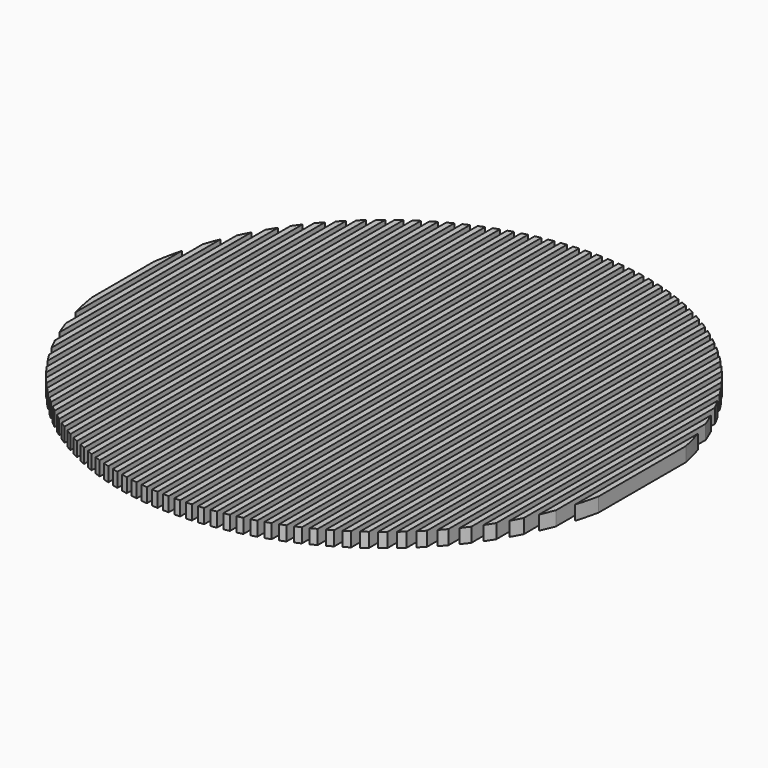
from build123d import *

# Parameters (mm, degrees)
F1_DEPTH = 2


with BuildPart() as f1:
    # F0 (on Top) → F1 (new body)
    with BuildSketch(Plane.XY):
        with BuildLine():
            Line((6.4, 48.4258639865), (6.4, 37.5741360135))
            ThreePointArc((6.4, 37.5741360135), (6.7469566137, 35.6029164376), (7.2, 33.6533428436))
            Line((7.2, 33.6533428436), (7.2, 52.3466571564))
            ThreePointArc((7.2, 52.3466571564), (6.7469566137, 50.3970835624), (6.4, 48.4258639865))
        make_face()
    extrude(amount=F1_DEPTH)


with BuildPart() as f1b:
    # F0 (on Top) → F1, piece 2 (new body)
    with BuildSketch(Plane.XY):
        with BuildLine():
            Line((8, 55), (8, 31))
            ThreePointArc((8, 31), (8.3837746202, 29.9341307042), (8.8, 28.8805099242))
            Line((8.8, 28.8805099242), (8.8, 57.1194900758))
            ThreePointArc((8.8, 57.1194900758), (8.3837746202, 56.0658692958), (8, 55))
        make_face()
    extrude(amount=F1_DEPTH)


with BuildPart() as f1c:
    # F0 (on Top) → F1, piece 3 (new body)
    with BuildSketch(Plane.XY):
        with BuildLine():
            Line((9.6, 58.9197989937), (9.6, 27.0802010063))
            ThreePointArc((9.6, 27.0802010063), (9.9905463074, 26.285456425), (10.4, 25.5002857166))
            Line((10.4, 25.5002857166), (10.4, 60.4997142834))
            ThreePointArc((10.4, 60.4997142834), (9.9905463074, 59.714543575), (9.6, 58.9197989937))
        make_face()
    extrude(amount=F1_DEPTH)


with BuildPart() as f1d:
    # F0 (on Top) → F1, piece 4 (new body)
    with BuildSketch(Plane.XY):
        with BuildLine():
            Line((11.2, 61.9145446681), (11.2, 24.0854553319))
            ThreePointArc((11.2, 24.0854553319), (11.5934328091, 23.4391325018), (12, 22.8009901233))
            Line((12, 22.8009901233), (12, 63.1990098767))
            ThreePointArc((12, 63.1990098767), (11.5934328091, 62.5608674982), (11.2, 61.9145446681))
        make_face()
    extrude(amount=F1_DEPTH)


with BuildPart() as f1e:
    # F0 (on Top) → F1, piece 5 (new body)
    with BuildSketch(Plane.XY):
        with BuildLine():
            Line((12.8, 64.3766227454), (12.8, 21.6233772546))
            ThreePointArc((12.8, 21.6233772546), (13.1950389589, 21.0759424983), (13.6, 20.5358062686))
            Line((13.6, 20.5358062686), (13.6, 65.4641937314))
            ThreePointArc((13.6, 65.4641937314), (13.1950389589, 64.9240575017), (12.8, 64.3766227454))
        make_face()
    extrude(amount=F1_DEPTH)


with BuildPart() as f1f:
    # F0 (on Top) → F1, piece 6 (new body)
    with BuildSketch(Plane.XY):
        with BuildLine():
            Line((14.4, 66.4742412018), (14.4, 19.5257587982))
            ThreePointArc((14.4, 19.5257587982), (14.7960656979, 19.0513447166), (15.2, 18.5836120607))
            Line((15.2, 18.5836120607), (15.2, 67.4163879393))
            ThreePointArc((15.2, 67.4163879393), (14.7960656979, 66.9486552834), (14.4, 66.4742412018))
        make_face()
    extrude(amount=F1_DEPTH)


with BuildPart() as f1g:
    # F0 (on Top) → F1, piece 7 (new body)
    with BuildSketch(Plane.XY):
        with BuildLine():
            Line((16, 68.2982212813), (16, 17.7017787187))
            ThreePointArc((16, 17.7017787187), (16.3967813597, 17.2848535299), (16.8, 16.8741507315))
            Line((16.8, 16.8741507315), (16.8, 69.1258492685))
            ThreePointArc((16.8, 69.1258492685), (16.3967813597, 68.7151464701), (16, 68.2982212813))
        make_face()
    extrude(amount=F1_DEPTH)


with BuildPart() as f1h:
    # F0 (on Top) → F1, piece 8 (new body)
    with BuildSketch(Plane.XY):
        with BuildLine():
            Line((17.6, 69.9042747533), (17.6, 16.0957252467))
            ThreePointArc((17.6, 16.0957252467), (17.9973109082, 15.7261015221), (18.4, 15.3623445278))
            Line((18.4, 15.3623445278), (18.4, 70.6376554722))
            ThreePointArc((18.4, 70.6376554722), (17.9973109082, 70.2738984779), (17.6, 69.9042747533))
        make_face()
    extrude(amount=F1_DEPTH)


with BuildPart() as f1i:
    # F0 (on Top) → F1, piece 9 (new body)
    with BuildSketch(Plane.XY):
        with BuildLine():
            Line((19.2, 71.3294899354), (19.2, 14.6705100646))
            ThreePointArc((19.2, 14.6705100646), (19.5977204461, 14.3410866975), (20, 14.0172465076))
            Line((20, 14.0172465076), (20, 71.9827534924))
            ThreePointArc((20, 71.9827534924), (19.5977204461, 71.6589133025), (19.2, 71.3294899354))
        make_face()
    extrude(amount=F1_DEPTH)


with BuildPart() as f1j:
    # F0 (on Top) → F1, piece 10 (new body)
    with BuildSketch(Plane.XY):
        with BuildLine():
            Line((20.8, 72.6), (20.8, 13.4))
            ThreePointArc((20.8, 13.4), (21.1980482453, 13.1056042094), (21.6, 12.8165608321))
            Line((21.6, 12.8165608321), (21.6, 73.1834391679))
            ThreePointArc((21.6, 73.1834391679), (21.1980482453, 72.8943957906), (20.8, 72.6))
        make_face()
    extrude(amount=F1_DEPTH)


with BuildPart() as f1k:
    # F0 (on Top) → F1, piece 11 (new body)
    with BuildSketch(Plane.XY):
        with BuildLine():
            Line((22.4, 73.7349963397), (22.4, 12.2650036603))
            ThreePointArc((22.4, 12.2650036603), (22.7983180193, 12.0017412561), (23.2, 11.7436406471))
            Line((23.2, 11.7436406471), (23.2, 74.2563593529))
            ThreePointArc((23.2, 74.2563593529), (22.7983180193, 73.9982587439), (22.4, 73.7349963397))
        make_face()
    extrude(amount=F1_DEPTH)


with BuildPart() as f1l:
    # F0 (on Top) → F1, piece 12 (new body)
    with BuildSketch(Plane.XY):
        with BuildLine():
            Line((24, 74.7490157328), (24, 11.2509842672))
            ThreePointArc((24, 11.2509842672), (24.3985452638, 11.0158495236), (24.8, 10.7857174533))
            Line((24.8, 10.7857174533), (24.8, 75.2142825467))
            ThreePointArc((24.8, 75.2142825467), (24.3985452638, 74.9841504764), (24, 74.7490157328))
        make_face()
    extrude(amount=F1_DEPTH)


with BuildPart() as f1m:
    # F0 (on Top) → F1, piece 13 (new body)
    with BuildSketch(Plane.XY):
        with BuildLine():
            Line((25.6, 75.6533306111), (25.6, 10.3466693889))
            ThreePointArc((25.6, 10.3466693889), (25.9987405509, 10.1372980852), (26.4, 9.9327957033))
            Line((26.4, 9.9327957033), (26.4, 76.0672042967))
            ThreePointArc((26.4, 76.0672042967), (25.9987405509, 75.8627019148), (25.6, 75.6533306111))
        make_face()
    extrude(amount=F1_DEPTH)


with BuildPart() as f1n:
    # F0 (on Top) → F1, piece 14 (new body)
    with BuildSketch(Plane.XY):
        with BuildLine():
            Line((27.2, 76.4568378661), (27.2, 9.5431621339))
            ThreePointArc((27.2, 9.5431621339), (27.5989113593, 9.3576685011), (28, 9.1769309494))
            Line((28, 9.1769309494), (28, 76.8230690506))
            ThreePointArc((28, 76.8230690506), (27.5989113593, 76.6423314989), (27.2, 76.4568378661))
        make_face()
    extrude(amount=F1_DEPTH)


with BuildPart() as f1o:
    # F0 (on Top) → F1, piece 15 (new body)
    with BuildSketch(Plane.XY):
        with BuildLine():
            Line((28.8, 77.1666504065), (28.8, 8.8333495935))
            ThreePointArc((28.8, 8.8333495935), (29.1990631477, 8.6702149439), (29.6, 8.5117411283))
            Line((29.6, 8.5117411283), (29.6, 77.4882588717))
            ThreePointArc((29.6, 77.4882588717), (29.1990631477, 77.3297850561), (28.8, 77.1666504065))
        make_face()
    extrude(amount=F1_DEPTH)


with BuildPart() as f1p:
    # F0 (on Top) → F1, piece 16 (new body)
    with BuildSketch(Plane.XY):
        with BuildLine():
            Line((30.4, 77.7885038483), (30.4, 8.2114961517))
            ThreePointArc((30.4, 8.2114961517), (30.7992000134, 8.0694907039), (31.2, 7.9320659291))
            Line((31.2, 7.9320659291), (31.2, 78.0679340709))
            ThreePointArc((31.2, 78.0679340709), (30.7992000134, 77.9305092961), (30.4, 77.7885038483))
        make_face()
    extrude(amount=F1_DEPTH)


with BuildPart() as f1q:
    # F0 (on Top) → F1, piece 17 (new body)
    with BuildSketch(Plane.XY):
        with BuildLine():
            Line((32, 78.3270434653), (32, 7.6729565347))
            ThreePointArc((32, 7.6729565347), (32.3993251125, 7.5510833462), (32.8, 7.4337238384))
            Line((32.8, 7.4337238384), (32.8, 78.5662761616))
            ThreePointArc((32.8, 78.5662761616), (32.3993251125, 78.4489166538), (32, 78.3270434653))
        make_face()
    extrude(amount=F1_DEPTH)


with BuildPart() as f1r:
    # F0 (on Top) → F1, piece 18 (new body)
    with BuildSketch(Plane.XY):
        with BuildLine():
            Line((33.6, 78.7860307942), (33.6, 7.2139692058))
            ThreePointArc((33.6, 7.2139692058), (33.9994409373, 7.1114233138), (34.4, 7.0133358034))
            Line((34.4, 7.0133358034), (34.4, 78.9866641966))
            ThreePointArc((34.4, 78.9866641966), (33.9994409373, 78.8885766862), (33.6, 78.7860307942))
        make_face()
    extrude(amount=F1_DEPTH)


with BuildPart() as f1s:
    # F0 (on Top) → F1, piece 19 (new body)
    with BuildSketch(Plane.XY):
        with BuildLine():
            Line((35.2, 79.1684945775), (35.2, 6.8315054225))
            ThreePointArc((35.2, 6.8315054225), (35.5995495061, 6.7476437664), (36, 6.6681957508))
            Line((36, 6.6681957508), (36, 79.3318042492))
            ThreePointArc((36, 79.3318042492), (35.5995495061, 79.2523562336), (35.2, 79.1684945775))
        make_face()
    extrude(amount=F1_DEPTH)


with BuildPart() as f1t:
    # F0 (on Top) → F1, piece 20 (new body)
    with BuildSketch(Plane.XY):
        with BuildLine():
            Line((36.8, 79.4768419686), (36.8, 6.5231580314))
            ThreePointArc((36.8, 6.5231580314), (37.1996524959, 6.4574772514), (37.6, 6.3961750633))
            Line((37.6, 6.3961750633), (37.6, 79.6038249367))
            ThreePointArc((37.6, 79.6038249367), (37.1996524959, 79.5425227486), (36.8, 79.4768419686))
        make_face()
    extrude(amount=F1_DEPTH)


with BuildPart() as f1u:
    # F0 (on Top) → F1, piece 21 (new body)
    with BuildSketch(Plane.XY):
        with BuildLine():
            Line((38.4, 79.7129404979), (38.4, 6.2870595021))
            ThreePointArc((38.4, 6.2870595021), (38.7997513391, 6.239179672), (39.2, 6.1956524307))
            Line((39.2, 6.1956524307), (39.2, 79.8043475693))
            ThreePointArc((39.2, 79.8043475693), (38.7997513391, 79.760820328), (38.4, 79.7129404979))
        make_face()
    extrude(amount=F1_DEPTH)


with BuildPart() as f1v:
    # F0 (on Top) → F1, piece 22 (new body)
    with BuildSketch(Plane.XY):
        with BuildLine():
            Line((40, 79.8781778292), (40, 6.1218221708))
            ThreePointArc((40, 6.1218221708), (40.3998472968, 6.0914751593), (40.8, 6.0654633168))
            Line((40.8, 6.0654633168), (40.8, 79.9345366832))
            ThreePointArc((40.8, 79.9345366832), (40.3998472968, 79.9085248407), (40, 79.8781778292))
        make_face()
    extrude(amount=F1_DEPTH)


with BuildPart() as f1w:
    # F0 (on Top) → F1, piece 23 (new body)
    with BuildSketch(Plane.XY):
        with BuildLine():
            Line((41.6, 79.9735040265), (41.6, 6.0264959735))
            ThreePointArc((41.6, 6.0264959735), (41.9999415153, 6.0135175635), (42.4, 6.0048651847))
            Line((42.4, 6.0048651847), (42.4, 79.9951348153))
            ThreePointArc((42.4, 79.9951348153), (41.9999415153, 79.9864824365), (41.6, 79.9735040265))
        make_face()
    extrude(amount=F1_DEPTH)


with BuildPart() as f1x:
    # F0 (on Top) → F1, piece 24 (new body)
    with BuildSketch(Plane.XY):
        with BuildLine():
            Line((43.2, 79.9994594555), (43.2, 6.0005405445))
            ThreePointArc((43.2, 6.0005405445), (43.6000350744, 6.0048657536), (44, 6.0135159822))
            Line((44, 6.0135159822), (44, 79.9864840178))
            ThreePointArc((44, 79.9864840178), (43.6000350744, 79.9951342464), (43.2, 79.9994594555))
        make_face()
    extrude(amount=F1_DEPTH)


with BuildPart() as f1y:
    # F0 (on Top) → F1, piece 25 (new body)
    with BuildSketch(Plane.XY):
        with BuildLine():
            Line((44.8, 79.9561902798), (44.8, 6.0438097202))
            ThreePointArc((44.8, 6.0438097202), (45.2001290285, 6.0654710026), (45.6, 6.0914644018))
            Line((45.6, 6.0914644018), (45.6, 79.9085355982))
            ThreePointArc((45.6, 79.9085355982), (45.2001290285, 79.9345289974), (44.8, 79.9561902798))
        make_face()
    extrude(amount=F1_DEPTH)


with BuildPart() as f1z:
    # F0 (on Top) → F1, piece 26 (new body)
    with BuildSketch(Plane.XY):
        with BuildLine():
            Line((46.4, 79.8434526069), (46.4, 6.1565473931))
            ThreePointArc((46.4, 6.1565473931), (46.8002244473, 6.1956756053), (47.2, 6.2391512612))
            Line((47.2, 6.2391512612), (47.2, 79.7608487388))
            ThreePointArc((47.2, 79.7608487388), (46.8002244473, 79.8043243947), (46.4, 79.8434526069))
        make_face()
    extrude(amount=F1_DEPTH)


with BuildPart() as f1ba:
    # F0 (on Top) → F1, piece 27 (new body)
    with BuildSketch(Plane.XY):
        with BuildLine():
            Line((48, 79.6606055596), (48, 6.3393944404))
            ThreePointArc((48, 6.3393944404), (48.4003224563, 6.3962226352), (48.8, 6.4574220942))
            Line((48.8, 6.4574220942), (48.8, 79.5425779058))
            ThreePointArc((48.8, 79.5425779058), (48.4003224563, 79.6037773648), (48, 79.6606055596))
        make_face()
    extrude(amount=F1_DEPTH)


with BuildPart() as f1bb:
    # F0 (on Top) → F1, piece 28 (new body)
    with BuildSketch(Plane.XY):
        with BuildLine():
            Line((49.6, 79.4065928095), (49.6, 6.5934071905))
            ThreePointArc((49.6, 6.5934071905), (50.0004242829, 6.6682774994), (50.4, 6.7475518068))
            Line((50.4, 6.7475518068), (50.4, 79.2524481932))
            ThreePointArc((50.4, 79.2524481932), (50.0004242829, 79.3317225006), (49.6, 79.4065928095))
        make_face()
    extrude(amount=F1_DEPTH)


with BuildPart() as f1bc:
    # F0 (on Top) → F1, piece 29 (new body)
    with BuildSketch(Plane.XY):
        with BuildLine():
            Line((51.2, 79.0799113081), (51.2, 6.9200886919))
            ThreePointArc((51.2, 6.9200886919), (51.6005313107, 7.0134627788), (52, 7.1112831101))
            Line((52, 7.1112831101), (52, 78.8887168899))
            ThreePointArc((52, 78.8887168899), (51.6005313107, 78.9865372212), (51.2, 79.0799113081))
        make_face()
    extrude(amount=F1_DEPTH)


with BuildPart() as f1bd:
    # F0 (on Top) → F1, piece 30 (new body)
    with BuildSketch(Plane.XY):
        with BuildLine():
            Line((52.8, 78.6785649936), (52.8, 7.3214350064))
            ThreePointArc((52.8, 7.3214350064), (53.2006451476, 7.4339088657), (53.6, 7.5508815342))
            Line((53.6, 7.5508815342), (53.6, 78.4491184658))
            ThreePointArc((53.6, 78.4491184658), (53.2006451476, 78.5660911343), (52.8, 78.6785649936))
        make_face()
    extrude(amount=F1_DEPTH)


with BuildPart() as f1be:
    # F0 (on Top) → F1, piece 31 (new body)
    with BuildSketch(Plane.XY):
        with BuildLine():
            Line((54.4, 78.2), (54.4, 7.8))
            ThreePointArc((54.4, 7.8), (54.8007677157, 7.9323242669), (55.2, 8.0692112886))
            Line((55.2, 8.0692112886), (55.2, 77.9307887114))
            ThreePointArc((55.2, 77.9307887114), (54.8007677157, 78.0676757331), (54.4, 78.2))
        make_face()
    extrude(amount=F1_DEPTH)


with BuildPart() as f1bf:
    # F0 (on Top) → F1, piece 32 (new body)
    with BuildSketch(Plane.XY):
        with BuildLine():
            Line((57.6, 76.9976469774), (57.6, 9.0023530226))
            ThreePointArc((57.6, 9.0023530226), (58.00104909, 9.1773962238), (58.4, 9.3571701547))
            Line((58.4, 9.3571701547), (58.4, 76.6428298453))
            ThreePointArc((58.4, 76.6428298453), (58.00104909, 76.8226037762), (57.6, 76.9976469774))
        make_face()
    extrude(amount=F1_DEPTH)


with BuildPart() as f1bg:
    # F0 (on Top) → F1, piece 33 (new body)
    with BuildSketch(Plane.XY):
        with BuildLine():
            Line((56, 77.6410161514), (56, 8.3589838486))
            ThreePointArc((56, 8.3589838486), (56.4009013737, 8.5120913598), (56.8, 8.6698383342))
            Line((56.8, 8.6698383342), (56.8, 77.3301616658))
            ThreePointArc((56.8, 77.3301616658), (56.4009013737, 77.4879086402), (56, 77.6410161514))
        make_face()
    extrude(amount=F1_DEPTH)


with BuildPart() as f1bh:
    # F0 (on Top) → F1, piece 34 (new body)
    with BuildSketch(Plane.XY):
        with BuildLine():
            Line((59.2, 76.2649966181), (59.2, 9.7350033819))
            ThreePointArc((59.2, 9.7350033819), (59.6012146938, 9.9334055172), (60, 10.1366465497))
            Line((60, 10.1366465497), (60, 75.8633534503))
            ThreePointArc((60, 75.8633534503), (59.6012146938, 76.0665944828), (59.2, 76.2649966181))
        make_face()
    extrude(amount=F1_DEPTH)


with BuildPart() as f1bi:
    # F0 (on Top) → F1, piece 35 (new body)
    with BuildSketch(Plane.XY):
        with BuildLine():
            Line((60.8, 75.4370158923), (60.8, 10.5629841077))
            ThreePointArc((60.8, 10.5629841077), (61.2014032532, 10.7865102851), (61.6, 11.0150035173))
            Line((61.6, 11.0150035173), (61.6, 74.9849964827))
            ThreePointArc((61.6, 74.9849964827), (61.2014032532, 75.2134897149), (60.8, 75.4370158923))
        make_face()
    extrude(amount=F1_DEPTH)


with BuildPart() as f1bj:
    # F0 (on Top) → F1, piece 36 (new body)
    with BuildSketch(Plane.XY):
        with BuildLine():
            Line((62.4, 74.506189868), (62.4, 11.493810132))
            ThreePointArc((62.4, 11.493810132), (62.8016216618, 11.7446679819), (63.2, 12.000645168))
            Line((63.2, 12.000645168), (63.2, 73.999354832))
            ThreePointArc((63.2, 73.999354832), (62.8016216618, 74.2553320181), (62.4, 74.506189868))
        make_face()
    extrude(amount=F1_DEPTH)


with BuildPart() as f1bk:
    # F0 (on Top) → F1, piece 37 (new body)
    with BuildSketch(Plane.XY):
        with BuildLine():
            Line((64, 73.4630924235), (64, 12.5369075765))
            ThreePointArc((64, 12.5369075765), (64.4018795846, 12.8178935419), (64.8, 13.1041808943))
            Line((64.8, 13.1041808943), (64.8, 72.8958191057))
            ThreePointArc((64.8, 72.8958191057), (64.4018795846, 73.1821064581), (64, 73.4630924235))
        make_face()
    extrude(amount=F1_DEPTH)


with BuildPart() as f1bl:
    # F0 (on Top) → F1, piece 38 (new body)
    with BuildSketch(Plane.XY):
        with BuildLine():
            Line((65.6, 72.2957334778), (65.6, 13.7042665222))
            ThreePointArc((65.6, 13.7042665222), (66.0021910521, 14.0189854076), (66.4, 14.3392254117))
            Line((66.4, 14.3392254117), (66.4, 71.6607745883))
            ThreePointArc((66.4, 71.6607745883), (66.0021910521, 71.9810145924), (65.6, 72.2957334778))
        make_face()
    extrude(amount=F1_DEPTH)


with BuildPart() as f1bm:
    # F0 (on Top) → F1, piece 39 (new body)
    with BuildSketch(Plane.XY):
        with BuildLine():
            Line((67.2, 70.9885690953), (67.2, 15.0114309047))
            ThreePointArc((67.2, 15.0114309047), (67.6025772886, 15.3646387619), (68, 15.723636606))
            Line((68, 15.723636606), (68, 70.276363394))
            ThreePointArc((68, 70.276363394), (67.6025772886, 70.6353612381), (67.2, 70.9885690953))
        make_face()
    extrude(amount=F1_DEPTH)


with BuildPart() as f1bn:
    # F0 (on Top) → F1, piece 40 (new body)
    with BuildSketch(Plane.XY):
        with BuildLine():
            Line((68.8, 69.5209351268), (68.8, 16.4790648732))
            ThreePointArc((68.8, 16.4790648732), (69.203072057, 16.8772318699), (69.6, 17.2815241509))
            Line((69.6, 17.2815241509), (69.6, 68.7184758491))
            ThreePointArc((69.6, 68.7184758491), (69.203072057, 69.1227681301), (68.8, 69.5209351268))
        make_face()
    extrude(amount=F1_DEPTH)


with BuildPart() as f1bo:
    # F0 (on Top) → F1, piece 41 (new body)
    with BuildSketch(Plane.XY):
        with BuildLine():
            Line((70.4, 67.8644324287), (70.4, 18.1355675713))
            ThreePointArc((70.4, 18.1355675713), (70.8037325929, 18.58786257), (71.2, 19.0467121255))
            Line((71.2, 19.0467121255), (71.2, 66.9532878745))
            ThreePointArc((71.2, 66.9532878745), (70.8037325929, 67.41213743), (70.4, 67.8644324287))
        make_face()
    extrude(amount=F1_DEPTH)


with BuildPart() as f1bp:
    # F0 (on Top) → F1, piece 42 (new body)
    with BuildSketch(Plane.XY):
        with BuildLine():
            Line((72, 65.9782505862), (72, 20.0217494138))
            ThreePointArc((72, 20.0217494138), (72.4046643927, 20.5419121038), (72.8, 21.069199741))
            Line((72.8, 21.069199741), (72.8, 64.930800259))
            ThreePointArc((72.8, 64.930800259), (72.4046643927, 65.4580878962), (72, 65.9782505862))
        make_face()
    extrude(amount=F1_DEPTH)


with BuildPart() as f1bq:
    # F0 (on Top) → F1, piece 43 (new body)
    with BuildSketch(Plane.XY):
        with BuildLine():
            Line((73.6, 63.8), (73.6, 22.2))
            ThreePointArc((73.6, 22.2), (74.0060858502, 22.8103333299), (74.4, 23.4285922836))
            Line((74.4, 23.4285922836), (74.4, 62.5714077164))
            ThreePointArc((74.4, 62.5714077164), (74.0060858502, 63.1896666701), (73.6, 63.8))
        make_face()
    extrude(amount=F1_DEPTH)


with BuildPart() as f1br:
    # F0 (on Top) → F1, piece 44 (new body)
    with BuildSketch(Plane.XY):
        with BuildLine():
            Line((75.2, 61.2252571998), (75.2, 24.7747428002))
            ThreePointArc((75.2, 24.7747428002), (75.6085350526, 25.5161948729), (76, 26.2667994693))
            Line((76, 26.2667994693), (76, 59.7332005307))
            ThreePointArc((76, 59.7332005307), (75.6085350526, 60.4838051271), (75.2, 61.2252571998))
        make_face()
    extrude(amount=F1_DEPTH)


with BuildPart() as f1bs:
    # F0 (on Top) → F1, piece 45 (new body)
    with BuildSketch(Plane.XY):
        with BuildLine():
            Line((76.8, 58.0519101778), (76.8, 27.9480898222))
            ThreePointArc((76.8, 27.9480898222), (77.2137975518, 28.9139765339), (77.6, 29.8912243135))
            Line((77.6, 29.8912243135), (77.6, 56.1087756865))
            ThreePointArc((77.6, 56.1087756865), (77.2137975518, 57.0860234661), (76.8, 58.0519101778))
        make_face()
    extrude(amount=F1_DEPTH)


with BuildPart() as f1bt:
    # F0 (on Top) → F1, piece 46 (new body)
    with BuildSketch(Plane.XY):
        with BuildLine():
            Line((78.4, 53.7628992377), (78.4, 32.2371007623))
            ThreePointArc((78.4, 32.2371007623), (78.8337651204, 33.7836407785), (79.2, 35.3475494121))
            Line((79.2, 35.3475494121), (79.2, 50.6524505879))
            ThreePointArc((79.2, 50.6524505879), (78.8337651204, 52.2163592215), (78.4, 53.7628992377))
        make_face()
    extrude(amount=F1_DEPTH)


solid = Compound([f1.part, f1b.part, f1c.part, f1d.part, f1e.part, f1f.part, f1g.part, f1h.part, f1i.part, f1j.part, f1k.part, f1l.part, f1m.part, f1n.part, f1o.part, f1p.part, f1q.part, f1r.part, f1s.part, f1t.part, f1u.part, f1v.part, f1w.part, f1x.part, f1y.part, f1z.part, f1ba.part, f1bb.part, f1bc.part, f1bd.part, f1be.part, f1bf.part, f1bg.part, f1bh.part, f1bi.part, f1bj.part, f1bk.part, f1bl.part, f1bm.part, f1bn.part, f1bo.part, f1bp.part, f1bq.part, f1br.part, f1bs.part, f1bt.part])
